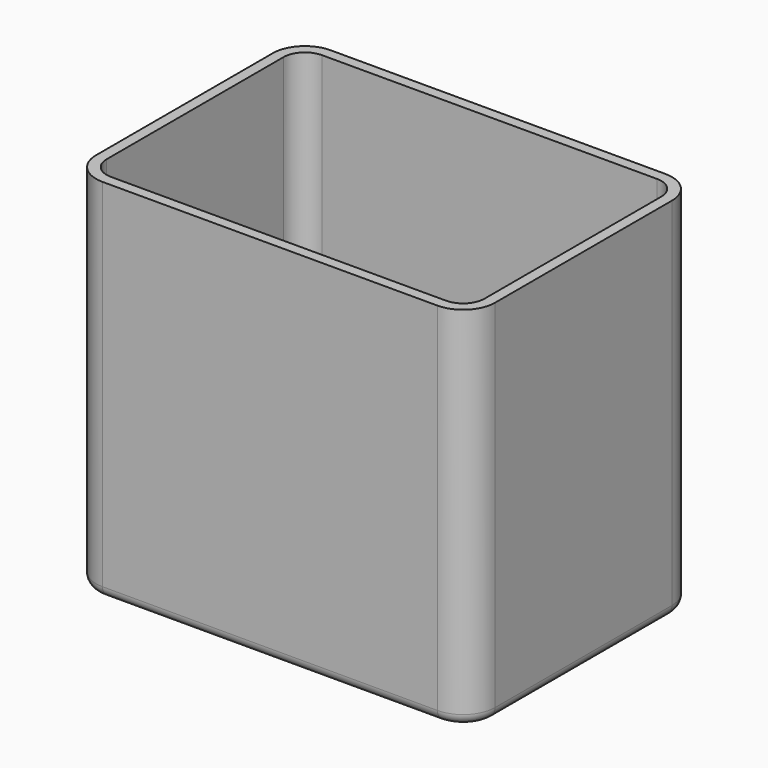
from build123d import *

# Parameters (mm, degrees)
PAD_DEPTH   = 50
THICKNESS_T = 1.5


with BuildPart() as part:
    # Sketch → Pad (new body)
    with BuildSketch(Plane.XY):
        with BuildLine():
            ThreePointArc((3, 0), (0.87868, -0.87868), (0, -3))
            Line((0, -34), (0, -3))
            ThreePointArc((0, -34), (0.87868, -36.12132), (3, -37))
            Line((50, -37), (3, -37))
            ThreePointArc((50, -37), (52.12132, -36.12132), (53, -34))
            Line((53, -3), (53, -34))
            ThreePointArc((53, -3), (52.12132, -0.87868), (50, 0))
            Line((3, 0), (50, 0))
        make_face()
    extrude(amount=PAD_DEPTH)

    # Thickness
    thickness_openings = [part.faces().sort_by_distance(p)[0] for p in [
        (26.5, -18.5, 50),
    ]]
    offset(amount=THICKNESS_T, openings=thickness_openings)


solid = part.part
